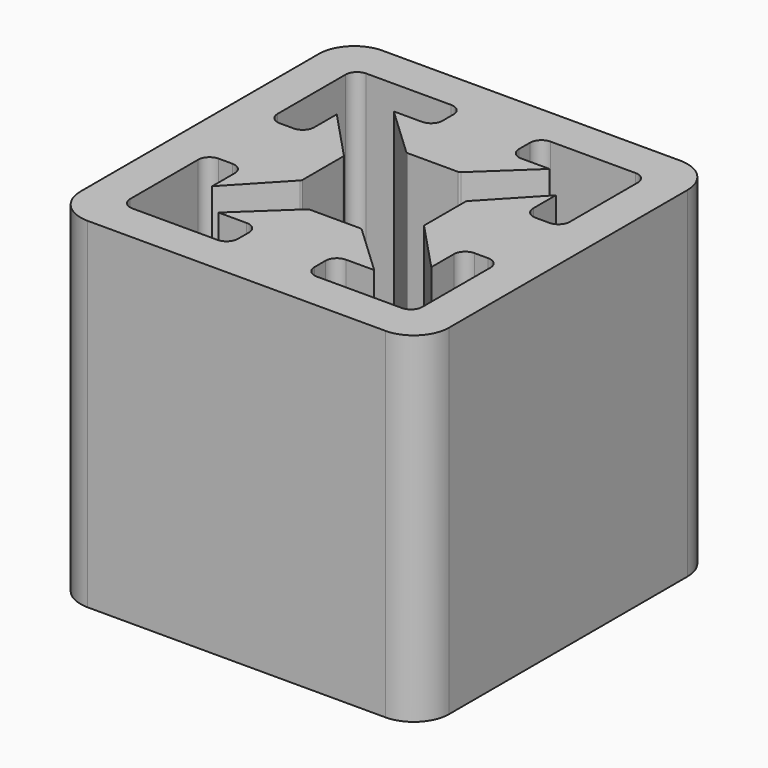
from build123d import *

# Parameters (mm, degrees)
F1_DEPTH = 6
F3_DEPTH = 10


with BuildPart() as f1:
    # F0 (on Top) → F1 (new body, symmetric)
    with BuildSketch(Plane.XY):
        with BuildLine():
            Line((6.5, -5.25), (6.5, 5.25))
            ThreePointArc((6.5, 5.25), (6.133883, 6.133883), (5.25, 6.5))
            Line((5.25, 6.5), (-5.25, 6.5))
            ThreePointArc((-5.25, 6.5), (-6.133883, 6.133883), (-6.5, 5.25))
            Line((-6.5, 5.25), (-6.5, -5.25))
            ThreePointArc((-6.5, -5.25), (-6.133883, -6.133883), (-5.25, -6.5))
            Line((-5.25, -6.5), (5.25, -6.5))
            ThreePointArc((5.25, -6.5), (6.133883, -6.133883), (6.5, -5.25))
        make_face()
    extrude(amount=F1_DEPTH, both=True)

    # F2 (on Top) → F3 (cut, symmetric)
    with BuildSketch(Plane.XY):
        with BuildLine():
            ThreePointArc((0.889914, -2.1566), (0.928239, -2.163918), (0.961171, -2.184843))
            Line((0.961171, -2.184843), (2.745753, -3.863205))
            Line((2.745753, -3.863205), (1.752595, -3.863205))
            ThreePointArc((1.752595, -3.863205), (1.466924, -3.981534), (1.348595, -4.267205))
            Line((1.348595, -4.267205), (1.348595, -4.749805))
            ThreePointArc((1.348595, -4.749805), (1.466924, -5.035476), (1.752595, -5.153805))
            Line((1.752595, -5.153805), (4.749795, -5.153805))
            ThreePointArc((4.749795, -5.153805), (5.035466, -5.035476), (5.153795, -4.749805))
            Line((5.153795, -4.749805), (5.153795, -1.752605))
            ThreePointArc((5.153795, -1.752605), (5.035471, -1.466932), (4.749802, -1.348599))
            Line((4.749802, -1.348599), (4.267202, -1.348599))
            ThreePointArc((4.267202, -1.348599), (3.981531, -1.466927), (3.863202, -1.752599))
            Line((3.863202, -1.752599), (3.863202, -2.745756))
            Line((3.863202, -2.745756), (2.184831, -0.961164))
            ThreePointArc((2.184831, -0.961164), (2.163912, -0.928237), (2.156595, -0.889919))
            Line((2.156595, -0.889919), (2.156595, 0.889909))
            ThreePointArc((2.156595, 0.889909), (2.163912, 0.928229), (2.184834, 0.961157))
            Line((2.184834, 0.961157), (3.863202, 2.745746))
            Line((3.863202, 2.745746), (3.863202, 1.752589))
            ThreePointArc((3.863202, 1.752589), (3.981531, 1.466917), (4.267202, 1.348589))
            Line((4.267202, 1.348589), (4.749802, 1.348589))
            ThreePointArc((4.749802, 1.348589), (5.035473, 1.466917), (5.153802, 1.752589))
            Line((5.153802, 1.752589), (5.153802, 4.749789))
            ThreePointArc((5.153802, 4.749789), (5.035477, 5.035475), (4.749794, 5.153807))
            Line((4.749794, 5.153807), (1.752594, 5.153807))
            ThreePointArc((1.752594, 5.153807), (1.466922, 5.035478), (1.348594, 4.749807))
            Line((1.348594, 4.749807), (1.348594, 4.267207))
            ThreePointArc((1.348594, 4.267207), (1.466922, 3.981536), (1.752594, 3.863207))
            Line((1.752594, 3.863207), (2.745751, 3.863207))
            Line((2.745751, 3.863207), (0.961159, 2.184836))
            ThreePointArc((0.961159, 2.184836), (0.928232, 2.163916), (0.889914, 2.1566))
            Line((0.889914, 2.1566), (-0.889914, 2.1566))
            ThreePointArc((-0.889914, 2.1566), (-0.928238, 2.163918), (-0.961169, 2.184841))
            Line((-0.961169, 2.184841), (-2.745757, 3.863209))
            Line((-2.745757, 3.863209), (-1.7526, 3.863209))
            ThreePointArc((-1.7526, 3.863209), (-1.466929, 3.981538), (-1.3486, 4.267209))
            Line((-1.3486, 4.267209), (-1.3486, 4.749809))
            ThreePointArc((-1.3486, 4.749809), (-1.466937, 5.035473), (-1.752607, 5.153794))
            Line((-1.752607, 5.153794), (-4.749807, 5.153794))
            ThreePointArc((-4.749807, 5.153794), (-5.035478, 5.035465), (-5.153807, 4.749794))
            Line((-5.153807, 4.749794), (-5.153807, 1.752594))
            ThreePointArc((-5.153807, 1.752594), (-5.035478, 1.466922), (-4.749807, 1.348594))
            Line((-4.749807, 1.348594), (-4.267207, 1.348594))
            ThreePointArc((-4.267207, 1.348594), (-3.981536, 1.466922), (-3.863207, 1.752594))
            Line((-3.863207, 1.752594), (-3.863207, 2.745751))
            Line((-3.863207, 2.745751), (-2.184836, 0.961159))
            ThreePointArc((-2.184836, 0.961159), (-2.163916, 0.928232), (-2.1566, 0.889914))
            Line((-2.1566, 0.889914), (-2.1566, -0.889914))
            ThreePointArc((-2.1566, -0.889914), (-2.163918, -0.928238), (-2.184841, -0.961169))
            Line((-2.184841, -0.961169), (-3.863209, -2.745757))
            Line((-3.863209, -2.745757), (-3.863209, -1.7526))
            ThreePointArc((-3.863209, -1.7526), (-3.981538, -1.466929), (-4.267209, -1.3486))
            Line((-4.267209, -1.3486), (-4.749809, -1.3486))
            ThreePointArc((-4.749809, -1.3486), (-5.035481, -1.466929), (-5.153809, -1.7526))
            Line((-5.153809, -1.7526), (-5.153809, -4.7498))
            ThreePointArc((-5.153809, -4.7498), (-5.035481, -5.035471), (-4.749809, -5.1538))
            Line((-4.749809, -5.1538), (-1.752609, -5.1538))
            ThreePointArc((-1.752609, -5.1538), (-1.466938, -5.035471), (-1.348609, -4.7498))
            Line((-1.348609, -4.7498), (-1.348609, -4.2672))
            ThreePointArc((-1.348609, -4.2672), (-1.466935, -3.981539), (-1.752594, -3.863207))
            Line((-1.752594, -3.863207), (-2.745751, -3.863207))
            Line((-2.745751, -3.863207), (-0.961159, -2.184836))
            ThreePointArc((-0.961159, -2.184836), (-0.928232, -2.163916), (-0.889914, -2.1566))
            Line((-0.889914, -2.1566), (0.889914, -2.1566))
        make_face()
    extrude(amount=F3_DEPTH, both=True, mode=Mode.SUBTRACT)


solid = f1.part
